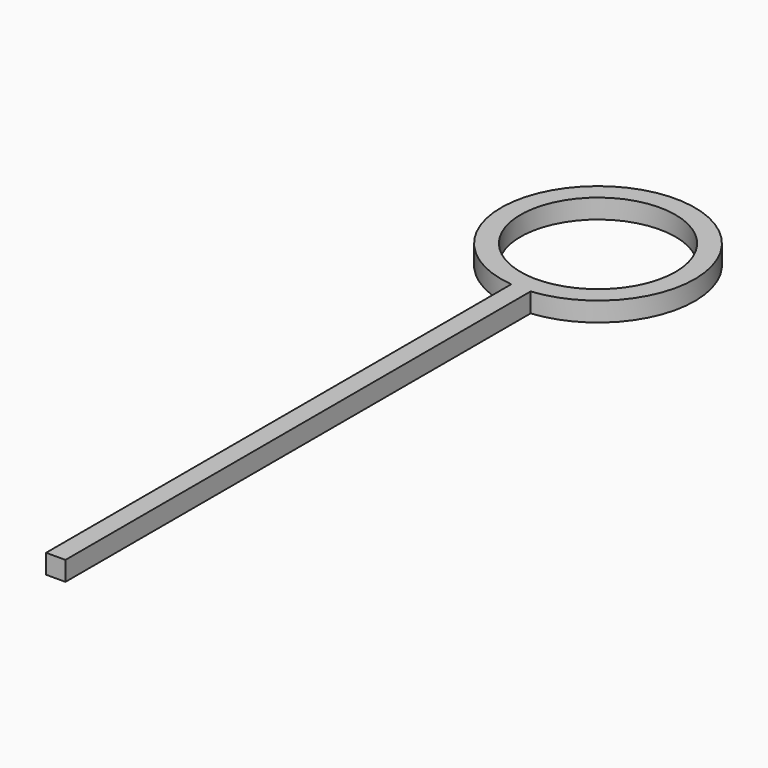
from build123d import *

# Parameters (mm, degrees)
F0_R     = 10
F0_R_2   = 8
F1_DEPTH = 2
F3_W     = 2
F3_H     = 2


with BuildPart() as f1:
    # F0 (on Top) → F1 (new body)
    with BuildSketch(Plane.XY):
        Circle(F0_R)
        Circle(F0_R_2, mode=Mode.SUBTRACT)
    extrude(amount=F1_DEPTH)

    # F3 (on offset) → F4 (join, up to the next surface of F1)
    with BuildSketch(Plane.XZ.offset(70)):
        with Locations((0, 1)):
            Rectangle(F3_W, F3_H)
    extrude(until=Until.NEXT, dir=(0, 1, 0))


solid = f1.part
